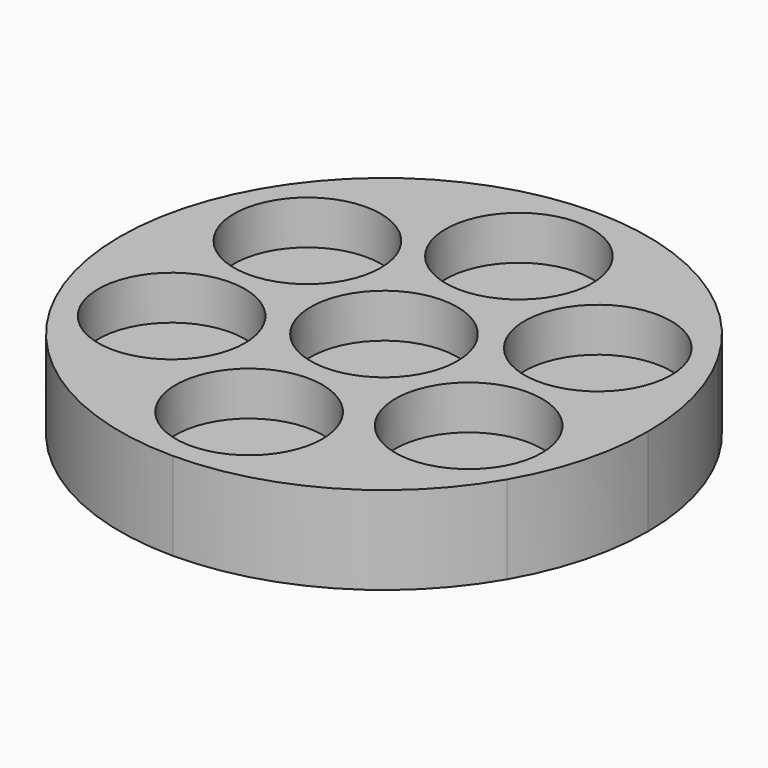
from build123d import *

# Parameters (mm, degrees)
F1_DEPTH = 3
F2_R     = 2.5
F3_DEPTH = 1.5


with BuildPart() as f1:
    # F0 (on Top) → F1 (new body)
    with BuildSketch(Plane.XY):
        with BuildLine():
            ThreePointArc((2.5980762113, -4.4999999998), (5.1961524816, -6), (7.794228693, -4.4999998979))
            ThreePointArc((7.794228693, -4.4999998979), (8.0939299168, -3.7764570784), (8.1961524227, -3))
            ThreePointArc((8.1961524227, -3), (7.3174727744, -0.8786796646), (5.1961524458, 0))
            ThreePointArc((5.1961524458, 0), (3.6961524382, -0.4019237797), (2.5980762177, -1.4999999891))
            ThreePointArc((2.5980762177, -1.4999999891), (2.1961524227, -2.9999999936), (2.5980762113, -4.4999999998))
        make_face()
        with BuildLine():
            ThreePointArc((-2.5980762009, 4.4999999818), (-5.1961524712, 6), (-7.794228693, 4.4999998979))
            ThreePointArc((-7.794228693, 4.4999998979), (-7.7942286046, 1.4999999489), (-5.1961524227, 0))
            ThreePointArc((-5.1961524227, 0), (-3.6961524372, 0.4019237803), (-2.5980762281, 1.4999999711))
            ThreePointArc((-2.5980762281, 1.4999999711), (-2.2983749482, 2.2235428486), (-2.1961524227, 3))
            ThreePointArc((-2.1961524227, 3), (-2.2983749411, 3.7764571252), (-2.5980762009, 4.4999999818))
        make_face()
        with BuildLine():
            ThreePointArc((2.5980762113, 4.4999999998), (5.1961524057, 6), (7.7942286171, 4.5000000293))
            ThreePointArc((7.7942286171, 4.5000000293), (4.4999999853, 7.7942286425), (0, 9))
            ThreePointArc((0, 9), (2.1213203436, 8.1213203436), (3, 6))
            ThreePointArc((3, 6), (2.8977774788, 5.2235428646), (2.5980762113, 4.4999999998))
        make_face()
        with BuildLine():
            ThreePointArc((2.5980762009, 1.5000000182), (2.1961524227, 3.0000000104), (2.5980762113, 4.4999999998))
            ThreePointArc((2.5980762113, 4.4999999998), (1.500000005, 3.4019237916), (1.18e-08, 3))
            ThreePointArc((1.18e-08, 3), (1.499999996, 2.5980762136), (2.5980762009, 1.5000000182))
        make_face()
        with BuildLine():
            ThreePointArc((-2.5980762009, -4.4999999818), (-2.5980762138, -7.4999999957), (1.12e-08, -9))
            ThreePointArc((1.12e-08, -9), (2.1213203475, -8.1213203396), (3, -6))
            ThreePointArc((3, -6), (2.8977774788, -5.2235428646), (2.5980762113, -4.4999999998))
            ThreePointArc((2.5980762113, -4.4999999998), (1.4999999999, -3.4019237886), (0, -3))
            ThreePointArc((0, -3), (-1.4999999909, -3.4019237834), (-2.5980762009, -4.4999999818))
        make_face()
        with BuildLine():
            ThreePointArc((2.5980762009, 1.5000000182), (1.499999996, 2.5980762136), (1.18e-08, 3))
            ThreePointArc((1.18e-08, 3), (-1.5000000093, 2.598076206), (-2.5980762281, 1.4999999711))
            ThreePointArc((-2.5980762281, 1.4999999711), (-3, -1.83e-08), (-2.5980762097, -1.5000000028))
            ThreePointArc((-2.5980762097, -1.5000000028), (-1.4999999986, -2.5980762122), (0, -3))
            ThreePointArc((0, -3), (1.5000000055, -2.5980762082), (2.5980762177, -1.4999999891))
            ThreePointArc((2.5980762177, -1.4999999891), (2.8977774805, -0.7764571292), (3, 0))
            ThreePointArc((3, 0), (2.8977774762, 0.7764571454), (2.5980762009, 1.5000000182))
        make_face()
        with BuildLine():
            ThreePointArc((8.1961524227, 3), (8.0939298972, 3.7764571516), (7.7942286171, 4.5000000293))
            ThreePointArc((7.7942286171, 4.5000000293), (5.1961524057, 6), (2.5980762113, 4.4999999998))
            ThreePointArc((2.5980762113, 4.4999999998), (2.1961524227, 3.0000000104), (2.5980762009, 1.5000000182))
            ThreePointArc((2.5980762009, 1.5000000182), (3.6961524236, 0.4019237881), (5.1961524458, 0))
            ThreePointArc((5.1961524458, 0), (7.3174727744, 0.8786796646), (8.1961524227, 3))
        make_face()
        with BuildLine():
            ThreePointArc((-2.5980762009, 4.4999999818), (-2.5980762166, 7.4999999909), (0, 9))
            ThreePointArc((0, 9), (-4.5000000511, 7.7942286046), (-7.794228693, 4.4999998979))
            ThreePointArc((-7.794228693, 4.4999998979), (-5.1961524712, 6), (-2.5980762009, 4.4999999818))
        make_face()
        with BuildLine():
            ThreePointArc((-5.1961524227, 0), (-7.7942286046, 1.4999999489), (-7.794228693, 4.4999998979))
            ThreePointArc((-7.794228693, 4.4999998979), (-9, -7.59e-08), (-7.7942286171, -4.5000000293))
            ThreePointArc((-7.7942286171, -4.5000000293), (-7.7942286425, -1.5000000147), (-5.1961524227, 0))
        make_face()
        with BuildLine():
            ThreePointArc((-7.7942286171, -4.5000000293), (-4.4999999805, -7.7942286453), (1.12e-08, -9))
            ThreePointArc((1.12e-08, -9), (-2.5980762138, -7.4999999957), (-2.5980762009, -4.4999999818))
            ThreePointArc((-2.5980762009, -4.4999999818), (-5.1961523953, -6), (-7.7942286171, -4.5000000293))
        make_face()
        with BuildLine():
            ThreePointArc((-5.1961524227, 0), (-7.7942286425, -1.5000000147), (-7.7942286171, -4.5000000293))
            ThreePointArc((-7.7942286171, -4.5000000293), (-5.1961523953, -6), (-2.5980762009, -4.4999999818))
            ThreePointArc((-2.5980762009, -4.4999999818), (-2.2983749411, -3.7764571252), (-2.1961524227, -3))
            ThreePointArc((-2.1961524227, -3), (-2.2983749434, -2.2235428663), (-2.5980762097, -1.5000000028))
            ThreePointArc((-2.5980762097, -1.5000000028), (-3.6961524213, -0.4019237895), (-5.1961524227, 0))
        make_face()
        with BuildLine():
            ThreePointArc((1.12e-08, -9), (4.5000000559, -7.7942286018), (7.794228693, -4.4999998979))
            ThreePointArc((7.794228693, -4.4999998979), (5.1961524816, -6), (2.5980762113, -4.4999999998))
            ThreePointArc((2.5980762113, -4.4999999998), (2.8977774788, -5.2235428646), (3, -6))
            ThreePointArc((3, -6), (2.1213203475, -8.1213203396), (1.12e-08, -9))
        make_face()
        with BuildLine():
            ThreePointArc((7.794228693, -4.4999998979), (8.6933324519, -2.329371349), (9, 0))
            ThreePointArc((9, 0), (8.6933324322, 2.3293714223), (7.7942286171, 4.5000000293))
            ThreePointArc((7.7942286171, 4.5000000293), (8.0939298972, 3.7764571516), (8.1961524227, 3))
            ThreePointArc((8.1961524227, 3), (7.3174727744, 0.8786796646), (5.1961524458, 0))
            ThreePointArc((5.1961524458, 0), (7.3174727744, -0.8786796646), (8.1961524227, -3))
            ThreePointArc((8.1961524227, -3), (8.0939299168, -3.7764570784), (7.794228693, -4.4999998979))
        make_face()
        with BuildLine():
            ThreePointArc((1.18e-08, 3), (-1.4999999858, 3.4019237804), (-2.5980762009, 4.4999999818))
            ThreePointArc((-2.5980762009, 4.4999999818), (-2.2983749411, 3.7764571252), (-2.1961524227, 3))
            ThreePointArc((-2.1961524227, 3), (-2.2983749482, 2.2235428486), (-2.5980762281, 1.4999999711))
            ThreePointArc((-2.5980762281, 1.4999999711), (-1.5000000093, 2.598076206), (1.18e-08, 3))
        make_face()
        with BuildLine():
            ThreePointArc((-2.5980762281, 1.4999999711), (-3.6961524372, 0.4019237803), (-5.1961524227, 0))
            ThreePointArc((-5.1961524227, 0), (-3.6961524213, -0.4019237895), (-2.5980762097, -1.5000000028))
            ThreePointArc((-2.5980762097, -1.5000000028), (-3, -1.83e-08), (-2.5980762281, 1.4999999711))
        make_face()
        with BuildLine():
            ThreePointArc((-2.1961524227, -3), (-2.2983749411, -3.7764571252), (-2.5980762009, -4.4999999818))
            ThreePointArc((-2.5980762009, -4.4999999818), (-1.4999999909, -3.4019237834), (0, -3))
            ThreePointArc((0, -3), (-1.4999999986, -2.5980762122), (-2.5980762097, -1.5000000028))
            ThreePointArc((-2.5980762097, -1.5000000028), (-2.2983749434, -2.2235428663), (-2.1961524227, -3))
        make_face()
        with BuildLine():
            ThreePointArc((0, -3), (1.4999999999, -3.4019237886), (2.5980762113, -4.4999999998))
            ThreePointArc((2.5980762113, -4.4999999998), (2.1961524227, -2.9999999936), (2.5980762177, -1.4999999891))
            ThreePointArc((2.5980762177, -1.4999999891), (1.5000000055, -2.5980762082), (0, -3))
        make_face()
        with BuildLine():
            ThreePointArc((2.5980762177, -1.4999999891), (3.6961524382, -0.4019237797), (5.1961524458, 0))
            ThreePointArc((5.1961524458, 0), (3.6961524236, 0.4019237881), (2.5980762009, 1.5000000182))
            ThreePointArc((2.5980762009, 1.5000000182), (2.8977774762, 0.7764571454), (3, 0))
            ThreePointArc((3, 0), (2.8977774805, -0.7764571292), (2.5980762177, -1.4999999891))
        make_face()
        with BuildLine():
            ThreePointArc((3, 6), (2.1213203436, 8.1213203436), (0, 9))
            ThreePointArc((0, 9), (-2.5980762166, 7.4999999909), (-2.5980762009, 4.4999999818))
            ThreePointArc((-2.5980762009, 4.4999999818), (-1.4999999858, 3.4019237804), (1.18e-08, 3))
            ThreePointArc((1.18e-08, 3), (1.500000005, 3.4019237916), (2.5980762113, 4.4999999998))
            ThreePointArc((2.5980762113, 4.4999999998), (2.8977774788, 5.2235428646), (3, 6))
        make_face()
    extrude(amount=F1_DEPTH)

    # F2 (on face) → F3 (cut)
    with BuildSketch(Plane.XY.offset(3)):
        with Locations((0, 5.75)):
            Circle(F2_R)
        with Locations((-4.9511927679, 2.9237288136)):
            Circle(F2_R)
        Circle(F2_R)
        with Locations((-5.0643394649, -2.7230434783)):
            Circle(F2_R)
        with Locations((0, -5.75)):
            Circle(F2_R)
        with Locations((5.0643394649, -2.7230434783)):
            Circle(F2_R)
        with Locations((4.9511927679, 2.9237288136)):
            Circle(F2_R)
    extrude(amount=-F3_DEPTH, mode=Mode.SUBTRACT)


solid = f1.part
